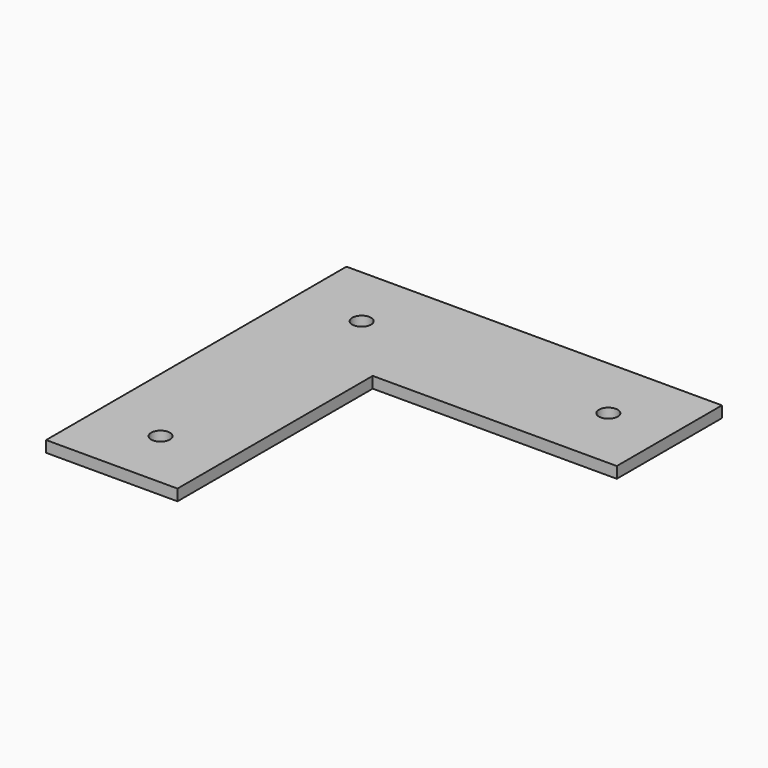
from build123d import *

# Parameters (mm, degrees)
F0_W     = 65
F0_H     = 35
F0_R     = 2.5
F0_W_2   = 35
F0_H_2   = 65
F1_DEPTH = 3


with BuildPart() as f1:
    # F0 (on Top) → F1 (new body)
    with BuildSketch(Plane.XY):
        with Locations((50, 32.5)):
            Rectangle(F0_W, F0_H)
        with Locations((66.25, 32.5)):
            Circle(F0_R, mode=Mode.SUBTRACT)
        with Locations((0, 32.5)):
            Rectangle(F0_W_2, F0_H)
        with Locations((0.305763, 32.805763)):
            Circle(F0_R, mode=Mode.SUBTRACT)
        with Locations((0, -17.5)):
            Rectangle(F0_W_2, F0_H_2)
        with Locations((0, -33.75)):
            Circle(F0_R, mode=Mode.SUBTRACT)
    extrude(amount=F1_DEPTH)


solid = f1.part
